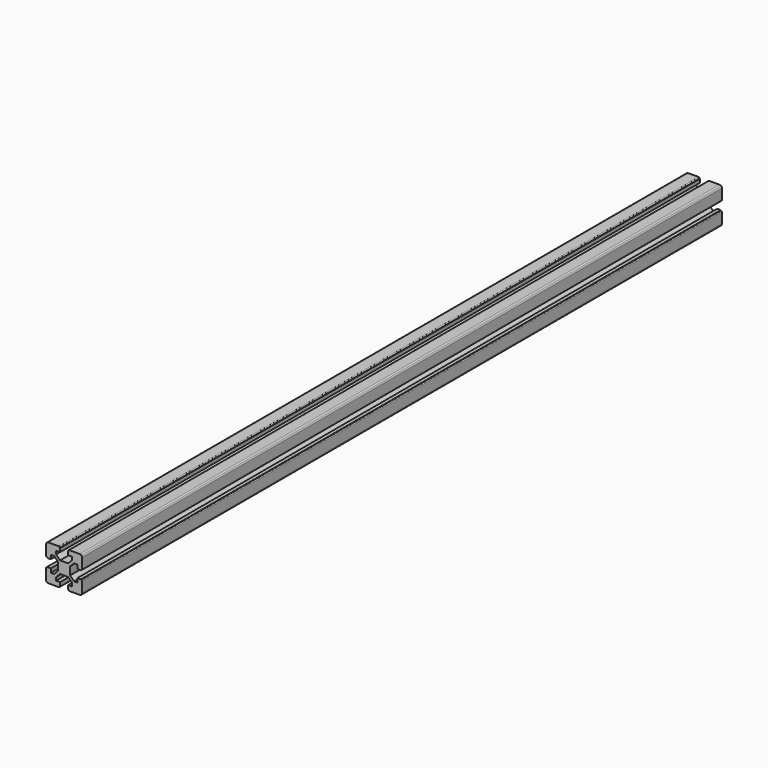
from build123d import *

# Parameters (mm, degrees)
F1_DEPTH = 1000


with BuildPart() as f1:
    # F0 (on Front) → F1 (new body)
    with BuildSketch(Plane.XZ):
        with BuildLine():
            Line((93.5, 122.5), (80.5, 122.5))
            ThreePointArc((80.5, 122.5), (79.35195, 122.271639), (78.37868, 121.62132))
            ThreePointArc((78.37868, 121.62132), (77.728361, 120.64805), (77.5, 119.5))
            Line((77.5, 119.5), (77.5, 106.5))
            ThreePointArc((77.5, 106.5), (77.792893, 105.792893), (78.5, 105.5))
            Line((78.5, 105.5), (79, 105.5))
            Line((79, 105.5), (79, 105))
            Line((79, 105), (83.5, 105))
            Line((83.5, 105), (83.5, 110))
            Line((83.5, 110), (87.5, 110))
            Line((87.5, 110), (92.5, 105))
            Line((92.5, 105), (92.5, 100))
            Line((92.5, 100), (92.5, 95))
            Line((92.5, 95), (87.5, 90))
            Line((87.5, 90), (83.5, 90))
            Line((83.5, 90), (83.5, 95))
            Line((83.5, 95), (79, 95))
            Line((79, 95), (79, 94.5))
            Line((79, 94.5), (78.5, 94.5))
            ThreePointArc((78.5, 94.5), (77.792893, 94.207107), (77.5, 93.5))
            Line((77.5, 93.5), (77.5, 80.5))
            ThreePointArc((77.5, 80.5), (77.728361, 79.35195), (78.37868, 78.37868))
            ThreePointArc((78.37868, 78.37868), (79.35195, 77.728361), (80.5, 77.5))
            Line((80.5, 77.5), (93.5, 77.5))
            ThreePointArc((93.5, 77.5), (94.207107, 77.792893), (94.5, 78.5))
            Line((94.5, 78.5), (94.5, 79))
            Line((94.5, 79), (95, 79))
            Line((95, 79), (95, 83.5))
            Line((95, 83.5), (90, 83.5))
            Line((90, 83.5), (90, 87.5))
            Line((90, 87.5), (95, 92.5))
            Line((95, 92.5), (100, 92.5))
            Line((100, 92.5), (105, 92.5))
            Line((105, 92.5), (110, 87.5))
            Line((110, 87.5), (110, 83.5))
            Line((110, 83.5), (105, 83.5))
            Line((105, 83.5), (105, 79))
            Line((105, 79), (105.5, 79))
            Line((105.5, 79), (105.5, 78.5))
            ThreePointArc((105.5, 78.5), (105.792893, 77.792893), (106.5, 77.5))
            Line((106.5, 77.5), (119.5, 77.5))
            ThreePointArc((119.5, 77.5), (120.64805, 77.728361), (121.62132, 78.37868))
            ThreePointArc((121.62132, 78.37868), (122.271639, 79.35195), (122.5, 80.5))
            Line((122.5, 80.5), (122.5, 93.5))
            ThreePointArc((122.5, 93.5), (122.207107, 94.207107), (121.5, 94.5))
            Line((121.5, 94.5), (121, 94.5))
            Line((121, 94.5), (121, 95))
            Line((121, 95), (116.5, 95))
            Line((116.5, 95), (116.5, 90))
            Line((116.5, 90), (112.5, 90))
            Line((112.5, 90), (107.5, 95))
            Line((107.5, 95), (107.5, 100))
            Line((107.5, 100), (107.5, 105))
            Line((107.5, 105), (112.5, 110))
            Line((112.5, 110), (116.5, 110))
            Line((116.5, 110), (116.5, 105))
            Line((116.5, 105), (121, 105))
            Line((121, 105), (121, 105.5))
            Line((121, 105.5), (121.5, 105.5))
            ThreePointArc((121.5, 105.5), (122.207107, 105.792893), (122.5, 106.5))
            Line((122.5, 106.5), (122.5, 119.5))
            ThreePointArc((122.5, 119.5), (122.271639, 120.64805), (121.62132, 121.62132))
            ThreePointArc((121.62132, 121.62132), (120.64805, 122.271639), (119.5, 122.5))
            Line((119.5, 122.5), (106.5, 122.5))
            ThreePointArc((106.5, 122.5), (105.792893, 122.207107), (105.5, 121.5))
            Line((105.5, 121.5), (105.5, 121))
            Line((105.5, 121), (105, 121))
            Line((105, 121), (105, 116.5))
            Line((105, 116.5), (110, 116.5))
            Line((110, 116.5), (110, 112.5))
            Line((110, 112.5), (105, 107.5))
            Line((105, 107.5), (100, 107.5))
            Line((100, 107.5), (95, 107.5))
            Line((95, 107.5), (90, 112.5))
            Line((90, 112.5), (90, 116.5))
            Line((90, 116.5), (95, 116.5))
            Line((95, 116.5), (95, 121))
            Line((95, 121), (94.5, 121))
            Line((94.5, 121), (94.5, 121.5))
            ThreePointArc((94.5, 121.5), (94.207107, 122.207107), (93.5, 122.5))
        make_face()
    extrude(amount=F1_DEPTH)


solid = f1.part
